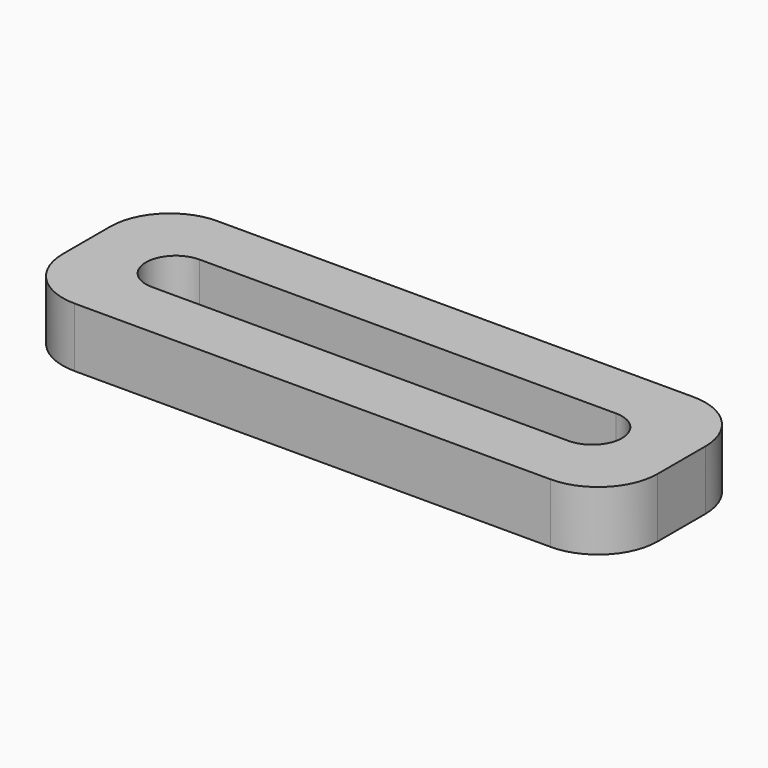
from build123d import *

# Parameters (mm, degrees)
F1_DEPTH = 6


with BuildPart() as f1:
    # F0 (on Top) → F1 (new body)
    with BuildSketch(Plane.XY):
        with BuildLine():
            ThreePointArc((-39.53987, 13.785708), (-37.782511, 9.543067), (-33.53987, 7.785708))
            Line((-33.53987, 7.785708), (14.46013, 7.785708))
            ThreePointArc((14.46013, 7.785708), (18.702771, 9.543067), (20.46013, 13.785708))
            Line((20.46013, 13.785708), (20.46013, 19.785708))
            ThreePointArc((20.46013, 19.785708), (18.702771, 24.028348), (14.46013, 25.785708))
            Line((14.46013, 25.785708), (-33.53987, 25.785708))
            ThreePointArc((-33.53987, 25.785708), (-37.782511, 24.028348), (-39.53987, 19.785708))
            Line((-39.53987, 19.785708), (-39.53987, 13.785708))
        make_face()
        with BuildLine():
            Line((11.46013, 13.785708), (-30.53987, 13.785708))
            ThreePointArc((-30.53987, 13.785708), (-33.53987, 16.785708), (-30.53987, 19.785708))
            Line((-30.53987, 19.785708), (11.46013, 19.785708))
            ThreePointArc((11.46013, 19.785708), (14.46013, 16.785708), (11.46013, 13.785708))
        make_face(mode=Mode.SUBTRACT)
    extrude(amount=F1_DEPTH)


solid = f1.part
